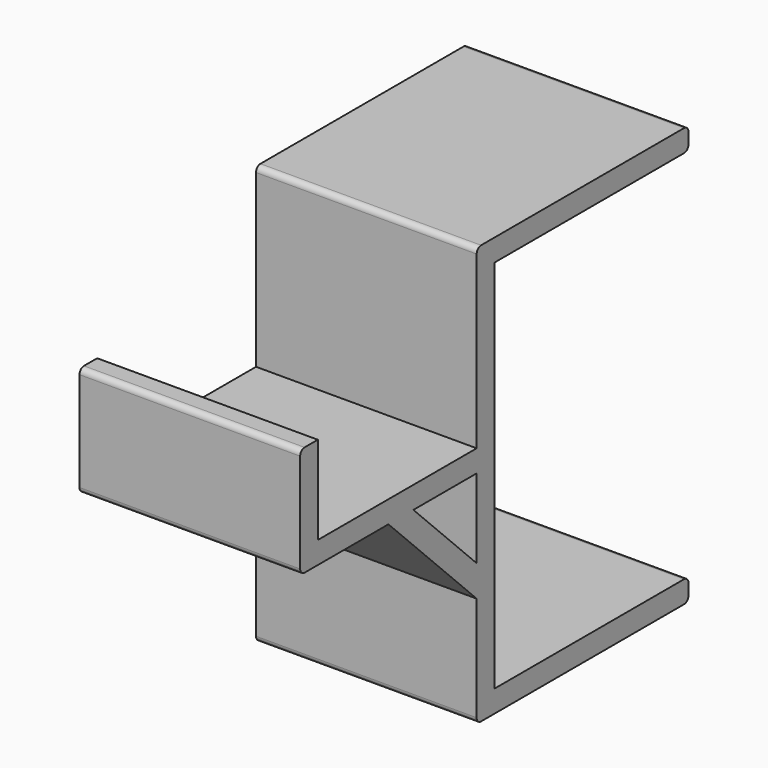
from build123d import *

# Parameters (mm, degrees)
BOX004_W          = 20
BOX004_H          = 2
BOX004_DEPTH      = 14.5
BOX004_ROLL_ANGLE = 45
BOX001_W          = 20
BOX001_H          = 30
BOX001_DEPTH      = 34
BOX_W             = 20
BOX_H             = 24
BOX_DEPTH         = 38
BOX002_W          = 20
BOX002_H          = 18
BOX002_DEPTH      = 8
BOX003_W          = 20
BOX003_H          = 20
BOX003_DEPTH      = 10
FILLET_R          = 0.5


with BuildPart() as cube004:
    # Box004 → Box004 (new body)
    with BuildSketch(Plane.XY):
        with Locations((10, 1)):
            Rectangle(BOX004_W, BOX004_H)
    extrude(amount=BOX004_DEPTH)


with BuildPart() as cube004_1:
    # Box004 roll: moved
    add(cube004.part.rotate(Axis((0, 0, 0), (1, 0, 0)), BOX004_ROLL_ANGLE))


with BuildPart() as cube004_2:
    # Box004 placement: moved
    add(cube004_1.part.moved(Location((0, 0, 10))))


with BuildPart() as cube001:
    # Box001 → Box001 (new body)
    with BuildSketch(Plane(origin=(0, 2, 2), x_dir=(1, 0, 0), z_dir=(0, 0, 1))):
        with Locations((10, 15)):
            Rectangle(BOX001_W, BOX001_H)
    extrude(amount=BOX001_DEPTH)


with BuildPart() as cut:
    # Box → Box (new body)
    with BuildSketch(Plane.XY):
        with Locations((10, 12)):
            Rectangle(BOX_W, BOX_H)
    extrude(amount=BOX_DEPTH)

    # Cut: cut Cube001
    add(cube001.part, mode=Mode.SUBTRACT)


with BuildPart() as cube002:
    # Box002 → Box002 (new body)
    with BuildSketch(Plane(origin=(0, -18, 22), x_dir=(1, 0, 0), z_dir=(0, 0, 1))):
        with Locations((10, 9)):
            Rectangle(BOX002_W, BOX002_H)
    extrude(amount=BOX002_DEPTH)


with BuildPart() as fillet_body:
    # Box003 → Box003 (new body)
    with BuildSketch(Plane(origin=(0, -20, 20), x_dir=(1, 0, 0), z_dir=(0, 0, 1))):
        with Locations((10, 10)):
            Rectangle(BOX003_W, BOX003_H)
    extrude(amount=BOX003_DEPTH)

    # Cut001: cut Cube002
    add(cube002.part, mode=Mode.SUBTRACT)

    # Fusion: union Cut
    add(cut.part)

    # Fusion001: union Cube004
    add(cube004_2.part)

    # Fillet
    fillet_edges = [fillet_body.edges().sort_by_distance(p)[0] for p in [
        (10, -20, 30),
        (10, -20, 20),
        (10, 0, 38),
        (10, 24, 38),
        (10, 24, 36),
        (10, 24, 2),
        (10, 24, 0),
        (10, 0, 0),
    ]]
    fillet(fillet_edges, radius=FILLET_R)


solid = fillet_body.part
